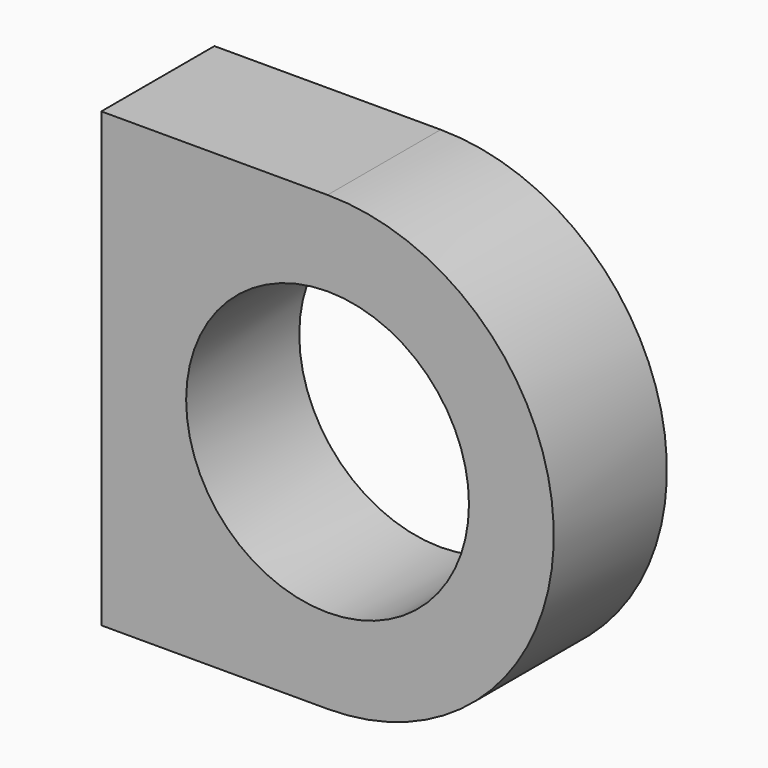
from build123d import *

# Parameters (mm, degrees)
CYLINDER024_R          = 5
CYLINDER024_DEPTH      = 5
CYLINDER024_ROLL_ANGLE = 90
BOX031_W               = 8
BOX031_H               = 5
BOX031_DEPTH           = 16
CYLINDER023_R          = 8
CYLINDER023_DEPTH      = 5
CYLINDER023_ROLL_ANGLE = 90


with BuildPart() as zylinder010:
    # Cylinder024 → Cylinder024 (new body)
    with BuildSketch(Plane.XY):
        Circle(CYLINDER024_R)
    extrude(amount=CYLINDER024_DEPTH)


with BuildPart() as zylinder010_1:
    # Cylinder024 roll: moved
    add(zylinder010.part.rotate(Axis((0, 0, 0), (1, 0, 0)), CYLINDER024_ROLL_ANGLE))


with BuildPart() as zylinder010_2:
    # Cylinder024 placement: moved
    add(zylinder010_1.part.moved(Location((8, 5, 8))))


with BuildPart() as obj1:
    # Box031 → Box031 (new body)
    with BuildSketch(Plane.XY):
        with Locations((4, 2.5)):
            Rectangle(BOX031_W, BOX031_H)
    extrude(amount=BOX031_DEPTH)


with BuildPart() as obj2:
    # Cylinder023 → Cylinder023 (new body)
    with BuildSketch(Plane.XY):
        Circle(CYLINDER023_R)
    extrude(amount=CYLINDER023_DEPTH)


with BuildPart() as obj2_1:
    # Cylinder023 roll: moved
    add(obj2.part.rotate(Axis((0, 0, 0), (1, 0, 0)), CYLINDER023_ROLL_ANGLE))


with BuildPart() as obj2_2:
    # Cylinder023 placement: moved
    add(obj2_1.part.moved(Location((8, 5, 8))))

    # Fusion016: union obj1
    add(obj1.part)

    # Cut021: cut Zylinder010
    add(zylinder010_2.part, mode=Mode.SUBTRACT)


with BuildPart() as obj2_3:
    # Cut021 placement: moved
    add(obj2_2.part.moved(Location((160, 70, 20))))


solid = obj2_3.part
